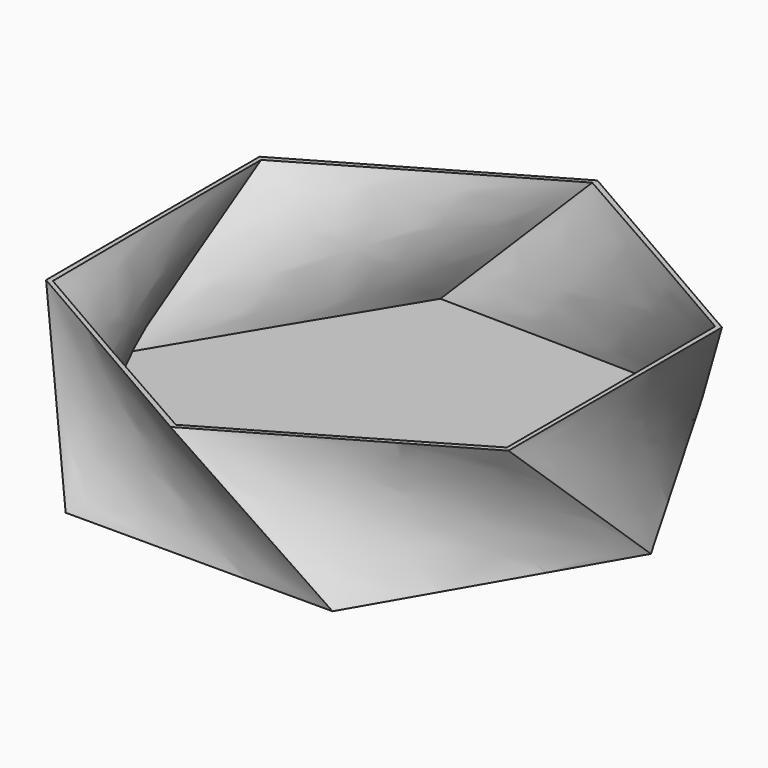
from build123d import *

# Parameters (mm, degrees)
F4_T = -0.4


with BuildPart() as f3:
    # F0 (on Top) → F3 section 0
    with BuildSketch(Plane.XY):
        Polygon((12.7, 21.9970452561), (-12.7, 21.9970452561), (-25.4, 0), (-12.7, -21.9970452561), (12.7, -21.9970452561), (25.4, 0), align=None)
    # F2 (on offset) → F3 section 1
    with BuildSketch(Plane.XY.offset(12.7)):
        Polygon((-0.0081428164, 25.3999986948), (-22.001115534, 12.6929474615), (-21.9929727176, -12.7070512333), (0.0081428164, -25.3999986948), (22.001115534, -12.6929474615), (21.9929727176, 12.7070512333), align=None)
    loft()

    # F4
    f4_openings = [f3.faces().sort_by_distance(p)[0] for p in [
        (0, 0, 12.7),
    ]]
    offset(amount=F4_T, openings=f4_openings, kind=Kind.INTERSECTION)


solid = f3.part
